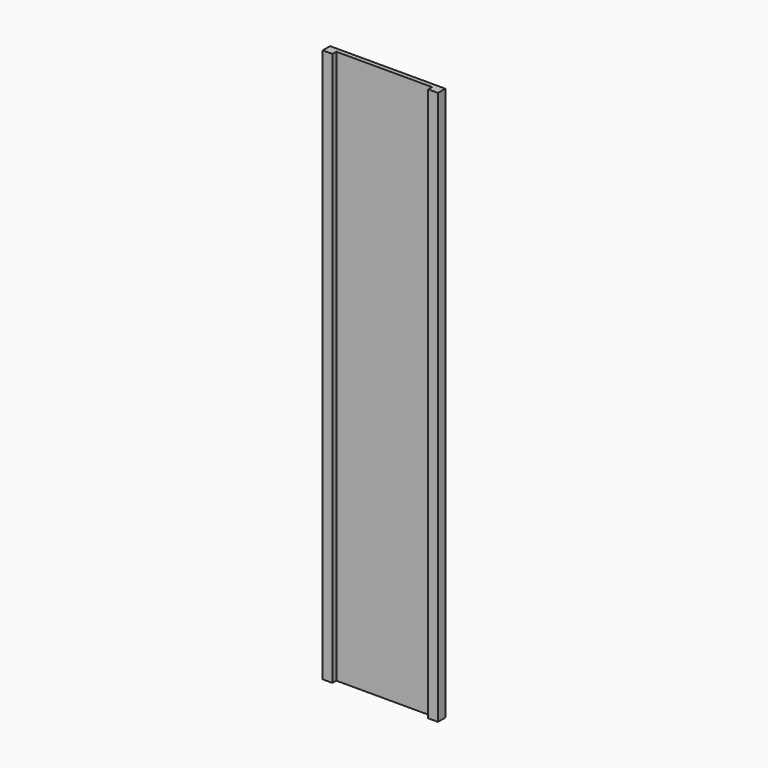
from build123d import *

# Parameters (mm, degrees)
F0_W     = 475
F0_H     = 2282
F1_DEPTH = 18
F2_W     = 40
F2_H     = 20
F3_DEPTH = 2282


with BuildPart() as f1:
    # F0 (on Front) → F1 (new body)
    with BuildSketch(Plane.XZ):
        with Locations((237.5, 1141)):
            Rectangle(F0_W, F0_H)
    extrude(amount=F1_DEPTH)

    # F2 (on face) → F3 (join)
    with BuildSketch(Plane(origin=(0, 0, 0), x_dir=(1, 0, 0), z_dir=(0, 0, -1))):
        with Locations((20, 28)):
            Rectangle(F2_W, F2_H)
        with Locations((455, 28)):
            Rectangle(F2_W, F2_H)
    extrude(amount=-F3_DEPTH)


solid = f1.part
